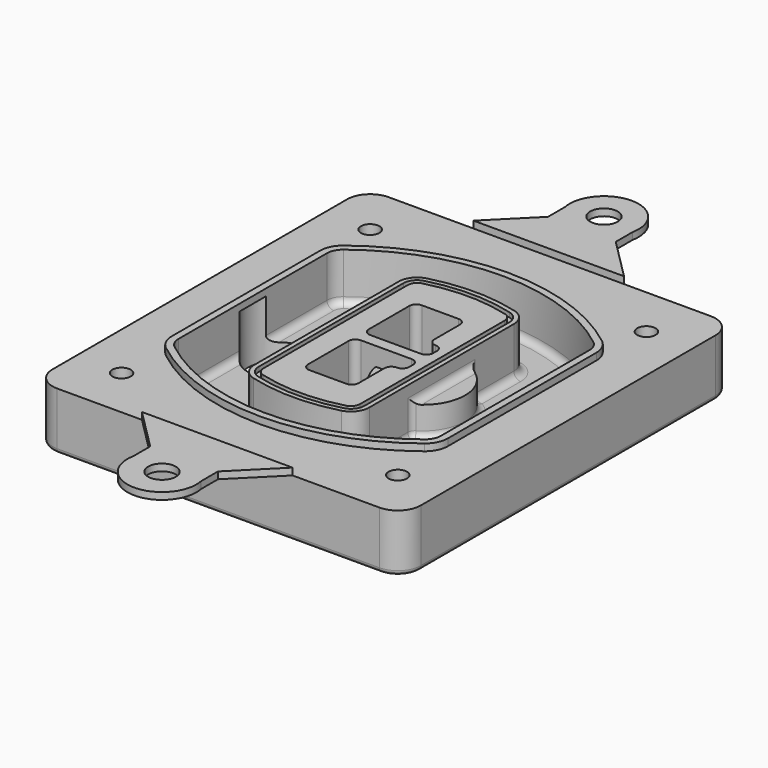
from build123d import *

# Parameters (mm, degrees)
F0_R      = 4
F1_DEPTH  = 25
F2_DEPTH  = 3
F3_DEPTH  = 18
F5_DEPTH  = 21
F6_DEPTH  = 2
F8_DEPTH  = 20
F9_DEPTH  = 16
F10_DEPTH = 25
F7_R      = 6
F7_R_2    = 4
F11_DEPTH = 6
F13_DEPTH = 9
F14_R     = 3
F15_R     = 2
F16_R     = 6
F17_DEPTH = 3


with BuildPart() as f1:
    # F0 (on Top) → F1 (new body)
    with BuildSketch(Plane.XY):
        with BuildLine():
            ThreePointArc((-80, -80), (-77.0710678119, -87.0710678119), (-70, -90))
            Line((-70, -90), (70, -90))
            ThreePointArc((70, -90), (77.0710678119, -87.0710678119), (80, -80))
            Line((80, -80), (80, 80))
            ThreePointArc((80, 80), (77.0710678119, 87.0710678119), (70, 90))
            Line((70, 90), (-70, 90))
            ThreePointArc((-70, 90), (-77.0710678119, 87.0710678119), (-80, 80))
            Line((-80, 80), (-80, -80))
        make_face()
        with Locations((-60, -67.5)):
            Circle(F0_R, mode=Mode.SUBTRACT)
        with Locations((60, -67.5)):
            Circle(F0_R, mode=Mode.SUBTRACT)
        with Locations((-60, 67.5)):
            Circle(F0_R, mode=Mode.SUBTRACT)
        with BuildLine():
            ThreePointArc((-64, 40.2934422872), (-62.5820384798, 46.4328484224), (-58.6153846154, 51.3286200352))
            ThreePointArc((-58.6153846154, 51.3286200352), (0, 71.5), (58.6153846154, 51.3286200352))
            ThreePointArc((58.6153846154, 51.3286200352), (62.5820384798, 46.4328484224), (64, 40.2934422872))
            Line((64, 40.2934422872), (64, -40.2934422872))
            ThreePointArc((64, -40.2934422872), (62.5820384798, -46.4328484224), (58.6153846154, -51.3286200352))
            ThreePointArc((58.6153846154, -51.3286200352), (0, -71.5), (-58.6153846154, -51.3286200352))
            ThreePointArc((-58.6153846154, -51.3286200352), (-62.5820384798, -46.4328484224), (-64, -40.2934422872))
            Line((-64, -40.2934422872), (-64, 40.2934422872))
        make_face(mode=Mode.SUBTRACT)
        with Locations((60, 67.5)):
            Circle(F0_R, mode=Mode.SUBTRACT)
        with BuildLine():
            ThreePointArc((58.6153846154, 51.3286200352), (0, 71.5), (-58.6153846154, 51.3286200352))
            ThreePointArc((-58.6153846154, 51.3286200352), (-62.5820384798, 46.4328484224), (-64, 40.2934422872))
            Line((-64, 40.2934422872), (-64, -40.2934422872))
            ThreePointArc((-64, -40.2934422872), (-62.5820384798, -46.4328484224), (-58.6153846154, -51.3286200352))
            ThreePointArc((-58.6153846154, -51.3286200352), (0, -71.5), (58.6153846154, -51.3286200352))
            ThreePointArc((58.6153846154, -51.3286200352), (62.5820384798, -46.4328484224), (64, -40.2934422872))
            Line((64, -40.2934422872), (64, 40.2934422872))
            ThreePointArc((64, 40.2934422872), (62.5820384798, 46.4328484224), (58.6153846154, 51.3286200352))
        make_face()
        with BuildLine():
            Line((-60, -40.2934422872), (-60, 40.2934422872))
            ThreePointArc((-60, 40.2934422872), (-58.9871703427, 44.6787323838), (-56.1538461538, 48.1757121072))
            ThreePointArc((-56.1538461538, 48.1757121072), (0, 67.5), (56.1538461538, 48.1757121072))
            ThreePointArc((56.1538461538, 48.1757121072), (58.9871703427, 44.6787323838), (60, 40.2934422872))
            Line((60, 40.2934422872), (60, -40.2934422872))
            ThreePointArc((60, -40.2934422872), (58.9871703427, -44.6787323838), (56.1538461538, -48.1757121072))
            ThreePointArc((56.1538461538, -48.1757121072), (0, -67.5), (-56.1538461538, -48.1757121072))
            ThreePointArc((-56.1538461538, -48.1757121072), (-58.9871703427, -44.6787323838), (-60, -40.2934422872))
        make_face(mode=Mode.SUBTRACT)
        with BuildLine():
            ThreePointArc((-56.1538461538, 48.1757121072), (-58.9871703427, 44.6787323838), (-60, 40.2934422872))
            Line((-60, 40.2934422872), (-60, -40.2934422872))
            ThreePointArc((-60, -40.2934422872), (-58.9871703427, -44.6787323838), (-56.1538461538, -48.1757121072))
            ThreePointArc((-56.1538461538, -48.1757121072), (0, -67.5), (56.1538461538, -48.1757121072))
            ThreePointArc((56.1538461538, -48.1757121072), (58.9871703427, -44.6787323838), (60, -40.2934422872))
            Line((60, -40.2934422872), (60, 40.2934422872))
            ThreePointArc((60, 40.2934422872), (58.9871703427, 44.6787323838), (56.1538461538, 48.1757121072))
            ThreePointArc((56.1538461538, 48.1757121072), (0, 67.5), (-56.1538461538, 48.1757121072))
        make_face()
        with BuildLine():
            ThreePointArc((54.3076923077, 45.8110311612), (56.2910192399, 43.3631453548), (57, 40.2934422872))
            Line((57, 40.2934422872), (57, -40.2934422872))
            ThreePointArc((57, -40.2934422872), (56.2910192399, -43.3631453548), (54.3076923077, -45.8110311612))
            ThreePointArc((54.3076923077, -45.8110311612), (0, -64.5), (-54.3076923077, -45.8110311612))
            ThreePointArc((-54.3076923077, -45.8110311612), (-56.2910192399, -43.3631453548), (-57, -40.2934422872))
            Line((-57, -40.2934422872), (-57, 40.2934422872))
            ThreePointArc((-57, 40.2934422872), (-56.2910192399, 43.3631453548), (-54.3076923077, 45.8110311612))
            ThreePointArc((-54.3076923077, 45.8110311612), (0, 64.5), (54.3076923077, 45.8110311612))
        make_face(mode=Mode.SUBTRACT)
        with BuildLine():
            Line((57, -40.2934422872), (57, 40.2934422872))
            ThreePointArc((57, 40.2934422872), (56.2910192399, 43.3631453548), (54.3076923077, 45.8110311612))
            ThreePointArc((54.3076923077, 45.8110311612), (0, 64.5), (-54.3076923077, 45.8110311612))
            ThreePointArc((-54.3076923077, 45.8110311612), (-56.2910192399, 43.3631453548), (-57, 40.2934422872))
            Line((-57, 40.2934422872), (-57, -40.2934422872))
            ThreePointArc((-57, -40.2934422872), (-56.2910192399, -43.3631453548), (-54.3076923077, -45.8110311612))
            ThreePointArc((-54.3076923077, -45.8110311612), (0, -64.5), (54.3076923077, -45.8110311612))
            ThreePointArc((54.3076923077, -45.8110311612), (56.2910192399, -43.3631453548), (57, -40.2934422872))
        make_face()
    extrude(amount=-F1_DEPTH)

    # F0 (on Top) → F2 (join)
    with BuildSketch(Plane.XY):
        with BuildLine():
            ThreePointArc((-56.1538461538, 48.1757121072), (-58.9871703427, 44.6787323838), (-60, 40.2934422872))
            Line((-60, 40.2934422872), (-60, -40.2934422872))
            ThreePointArc((-60, -40.2934422872), (-58.9871703427, -44.6787323838), (-56.1538461538, -48.1757121072))
            ThreePointArc((-56.1538461538, -48.1757121072), (0, -67.5), (56.1538461538, -48.1757121072))
            ThreePointArc((56.1538461538, -48.1757121072), (58.9871703427, -44.6787323838), (60, -40.2934422872))
            Line((60, -40.2934422872), (60, 40.2934422872))
            ThreePointArc((60, 40.2934422872), (58.9871703427, 44.6787323838), (56.1538461538, 48.1757121072))
            ThreePointArc((56.1538461538, 48.1757121072), (0, 67.5), (-56.1538461538, 48.1757121072))
        make_face()
        with BuildLine():
            ThreePointArc((54.3076923077, 45.8110311612), (56.2910192399, 43.3631453548), (57, 40.2934422872))
            Line((57, 40.2934422872), (57, -40.2934422872))
            ThreePointArc((57, -40.2934422872), (56.2910192399, -43.3631453548), (54.3076923077, -45.8110311612))
            ThreePointArc((54.3076923077, -45.8110311612), (0, -64.5), (-54.3076923077, -45.8110311612))
            ThreePointArc((-54.3076923077, -45.8110311612), (-56.2910192399, -43.3631453548), (-57, -40.2934422872))
            Line((-57, -40.2934422872), (-57, 40.2934422872))
            ThreePointArc((-57, 40.2934422872), (-56.2910192399, 43.3631453548), (-54.3076923077, 45.8110311612))
            ThreePointArc((-54.3076923077, 45.8110311612), (0, 64.5), (54.3076923077, 45.8110311612))
        make_face(mode=Mode.SUBTRACT)
    extrude(amount=F2_DEPTH)

    # F0 (on Top) → F3 (cut)
    with BuildSketch(Plane.XY):
        with BuildLine():
            Line((57, -40.2934422872), (57, 40.2934422872))
            ThreePointArc((57, 40.2934422872), (56.2910192399, 43.3631453548), (54.3076923077, 45.8110311612))
            ThreePointArc((54.3076923077, 45.8110311612), (0, 64.5), (-54.3076923077, 45.8110311612))
            ThreePointArc((-54.3076923077, 45.8110311612), (-56.2910192399, 43.3631453548), (-57, 40.2934422872))
            Line((-57, 40.2934422872), (-57, -40.2934422872))
            ThreePointArc((-57, -40.2934422872), (-56.2910192399, -43.3631453548), (-54.3076923077, -45.8110311612))
            ThreePointArc((-54.3076923077, -45.8110311612), (0, -64.5), (54.3076923077, -45.8110311612))
            ThreePointArc((54.3076923077, -45.8110311612), (56.2910192399, -43.3631453548), (57, -40.2934422872))
        make_face()
    extrude(amount=-F3_DEPTH, mode=Mode.SUBTRACT)

    # F4 (on face) → F5 (join, through all)
    with BuildSketch(Plane.XY.offset(3)):
        with BuildLine():
            ThreePointArc((-25, -39.2465276821), (-23.3511545998, -44.1109737193), (-19.0842911877, -46.9702398883))
            ThreePointArc((-19.0842911877, -46.9702398883), (0, -49.5), (19.0842911877, -46.9702398883))
            ThreePointArc((19.0842911877, -46.9702398883), (23.3511545998, -44.1109737193), (25, -39.2465276821))
            Line((25, -39.2465276821), (25, 39.2465276821))
            ThreePointArc((25, 39.2465276821), (23.3511545998, 44.1109737193), (19.0842911877, 46.9702398883))
            ThreePointArc((19.0842911877, 46.9702398883), (0, 49.5), (-19.0842911877, 46.9702398883))
            ThreePointArc((-19.0842911877, 46.9702398883), (-23.3511545998, 44.1109737193), (-25, 39.2465276821))
            Line((-25, 39.2465276821), (-25, -39.2465276821))
        make_face()
        with BuildLine():
            ThreePointArc((18.5632183908, 45.0393118368), (21.7633659499, 42.89486221), (23, 39.2465276821))
            Line((23, 39.2465276821), (23, -39.2465276821))
            ThreePointArc((23, -39.2465276821), (21.7633659499, -42.89486221), (18.5632183908, -45.0393118368))
            ThreePointArc((18.5632183908, -45.0393118368), (0, -47.5), (-18.5632183908, -45.0393118368))
            ThreePointArc((-18.5632183908, -45.0393118368), (-21.7633659499, -42.89486221), (-23, -39.2465276821))
            Line((-23, -39.2465276821), (-23, 39.2465276821))
            ThreePointArc((-23, 39.2465276821), (-21.7633659499, 42.89486221), (-18.5632183908, 45.0393118368))
            ThreePointArc((-18.5632183908, 45.0393118368), (0, 47.5), (18.5632183908, 45.0393118368))
        make_face(mode=Mode.SUBTRACT)
        with BuildLine():
            Line((23, -39.2465276821), (23, 39.2465276821))
            ThreePointArc((23, 39.2465276821), (21.7633659499, 42.89486221), (18.5632183908, 45.0393118368))
            ThreePointArc((18.5632183908, 45.0393118368), (0, 47.5), (-18.5632183908, 45.0393118368))
            ThreePointArc((-18.5632183908, 45.0393118368), (-21.7633659499, 42.89486221), (-23, 39.2465276821))
            Line((-23, 39.2465276821), (-23, -39.2465276821))
            ThreePointArc((-23, -39.2465276821), (-21.7633659499, -42.89486221), (-18.5632183908, -45.0393118368))
            ThreePointArc((-18.5632183908, -45.0393118368), (0, -47.5), (18.5632183908, -45.0393118368))
            ThreePointArc((18.5632183908, -45.0393118368), (21.7633659499, -42.89486221), (23, -39.2465276821))
        make_face()
        with BuildLine():
            ThreePointArc((18.0421455939, 43.1083837852), (20.1755772999, 41.6787507007), (21, 39.2465276821))
            Line((21, 39.2465276821), (21, -39.2465276821))
            ThreePointArc((21, -39.2465276821), (20.1755772999, -41.6787507007), (18.0421455939, -43.1083837852))
            ThreePointArc((18.0421455939, -43.1083837852), (0, -45.5), (-18.0421455939, -43.1083837852))
            ThreePointArc((-18.0421455939, -43.1083837852), (-20.1755772999, -41.6787507007), (-21, -39.2465276821))
            Line((-21, -39.2465276821), (-21, 39.2465276821))
            ThreePointArc((-21, 39.2465276821), (-20.1755772999, 41.6787507007), (-18.0421455939, 43.1083837852))
            ThreePointArc((-18.0421455939, 43.1083837852), (0, 45.5), (18.0421455939, 43.1083837852))
        make_face(mode=Mode.SUBTRACT)
        with BuildLine():
            Line((21, -39.2465276821), (21, 39.2465276821))
            ThreePointArc((21, 39.2465276821), (20.1755772999, 41.6787507007), (18.0421455939, 43.1083837852))
            ThreePointArc((18.0421455939, 43.1083837852), (0, 45.5), (-18.0421455939, 43.1083837852))
            ThreePointArc((-18.0421455939, 43.1083837852), (-20.1755772999, 41.6787507007), (-21, 39.2465276821))
            Line((-21, 39.2465276821), (-21, -39.2465276821))
            ThreePointArc((-21, -39.2465276821), (-20.1755772999, -41.6787507007), (-18.0421455939, -43.1083837852))
            ThreePointArc((-18.0421455939, -43.1083837852), (0, -45.5), (18.0421455939, -43.1083837852))
            ThreePointArc((18.0421455939, -43.1083837852), (20.1755772999, -41.6787507007), (21, -39.2465276821))
        make_face()
        with BuildLine():
            Line((-8, -2.5), (14, -2.5))
            ThreePointArc((14, -2.5), (16.1213203436, -3.3786796564), (17, -5.5))
            Line((17, -5.5), (17, -7.5))
            ThreePointArc((17, -7.5), (16.1213203436, -9.6213203436), (14, -10.5))
            ThreePointArc((14, -10.5), (11.8786796564, -11.3786796564), (11, -13.5))
            Line((11, -13.5), (11, -27.5))
            ThreePointArc((11, -27.5), (10.1213203436, -29.6213203436), (8, -30.5))
            Line((8, -30.5), (-8, -30.5))
            ThreePointArc((-8, -30.5), (-10.1213203436, -29.6213203436), (-11, -27.5))
            Line((-11, -27.5), (-11, -5.5))
            ThreePointArc((-11, -5.5), (-10.1213203436, -3.3786796564), (-8, -2.5))
        make_face(mode=Mode.SUBTRACT)
        with BuildLine():
            ThreePointArc((-8, 2.5), (-10.1213203436, 3.3786796564), (-11, 5.5))
            Line((-11, 5.5), (-11, 27.5))
            ThreePointArc((-11, 27.5), (-10.1213203436, 29.6213203436), (-8, 30.5))
            Line((-8, 30.5), (8, 30.5))
            ThreePointArc((8, 30.5), (10.1213203436, 29.6213203436), (11, 27.5))
            Line((11, 27.5), (11, 13.5))
            ThreePointArc((11, 13.5), (11.8786796564, 11.3786796564), (14, 10.5))
            ThreePointArc((14, 10.5), (16.1213203436, 9.6213203436), (17, 7.5))
            Line((17, 7.5), (17, 5.5))
            ThreePointArc((17, 5.5), (16.1213203436, 3.3786796564), (14, 2.5))
            Line((14, 2.5), (-8, 2.5))
        make_face(mode=Mode.SUBTRACT)
    extrude(amount=-F5_DEPTH)

    # F4 (on face) → F6 (cut)
    with BuildSketch(Plane.XY.offset(3)):
        with BuildLine():
            Line((23, -39.2465276821), (23, 39.2465276821))
            ThreePointArc((23, 39.2465276821), (21.7633659499, 42.89486221), (18.5632183908, 45.0393118368))
            ThreePointArc((18.5632183908, 45.0393118368), (0, 47.5), (-18.5632183908, 45.0393118368))
            ThreePointArc((-18.5632183908, 45.0393118368), (-21.7633659499, 42.89486221), (-23, 39.2465276821))
            Line((-23, 39.2465276821), (-23, -39.2465276821))
            ThreePointArc((-23, -39.2465276821), (-21.7633659499, -42.89486221), (-18.5632183908, -45.0393118368))
            ThreePointArc((-18.5632183908, -45.0393118368), (0, -47.5), (18.5632183908, -45.0393118368))
            ThreePointArc((18.5632183908, -45.0393118368), (21.7633659499, -42.89486221), (23, -39.2465276821))
        make_face()
        with BuildLine():
            ThreePointArc((18.0421455939, 43.1083837852), (20.1755772999, 41.6787507007), (21, 39.2465276821))
            Line((21, 39.2465276821), (21, -39.2465276821))
            ThreePointArc((21, -39.2465276821), (20.1755772999, -41.6787507007), (18.0421455939, -43.1083837852))
            ThreePointArc((18.0421455939, -43.1083837852), (0, -45.5), (-18.0421455939, -43.1083837852))
            ThreePointArc((-18.0421455939, -43.1083837852), (-20.1755772999, -41.6787507007), (-21, -39.2465276821))
            Line((-21, -39.2465276821), (-21, 39.2465276821))
            ThreePointArc((-21, 39.2465276821), (-20.1755772999, 41.6787507007), (-18.0421455939, 43.1083837852))
            ThreePointArc((-18.0421455939, 43.1083837852), (0, 45.5), (18.0421455939, 43.1083837852))
        make_face(mode=Mode.SUBTRACT)
    extrude(amount=-F6_DEPTH, mode=Mode.SUBTRACT)

    # F7 (on face) → F8 (join)
    with BuildSketch(Plane(origin=(0, 0, -25), x_dir=(1, 0, 0), z_dir=(0, 0, -1))):
        with BuildLine():
            ThreePointArc((3.28842436, 0), (16.7567035675, 13.4682792075), (30.224982775, 0))
            Line((30.224982775, 0), (35.224982775, 0))
            ThreePointArc((35.224982775, 0), (16.7567035675, 18.4682792075), (-1.71157564, 0))
            Line((-1.71157564, 0), (3.28842436, 0))
        make_face()
        with BuildLine():
            Line((3.28842436, 0), (30.224982775, 0))
            ThreePointArc((30.224982775, 0), (16.7567035675, 13.4682792075), (3.28842436, 0))
        make_face()
        with BuildLine():
            ThreePointArc((3.28842436, 0), (16.7567035675, -13.4682792075), (30.224982775, 0))
            Line((30.224982775, 0), (3.28842436, 0))
        make_face()
        with BuildLine():
            Line((35.224982775, 0), (30.224982775, 0))
            ThreePointArc((30.224982775, 0), (16.7567035675, -13.4682792075), (3.28842436, 0))
            Line((3.28842436, 0), (-1.71157564, 0))
            ThreePointArc((-1.71157564, 0), (16.7567035675, -18.4682792075), (35.224982775, 0))
        make_face()
    extrude(amount=-F8_DEPTH)

    # F7 (on face) → F9 (cut)
    with BuildSketch(Plane(origin=(0, 0, -25), x_dir=(1, 0, 0), z_dir=(0, 0, -1))):
        with BuildLine():
            Line((3.28842436, 0), (30.224982775, 0))
            ThreePointArc((30.224982775, 0), (16.7567035675, 13.4682792075), (3.28842436, 0))
        make_face()
        with BuildLine():
            ThreePointArc((3.28842436, 0), (16.7567035675, -13.4682792075), (30.224982775, 0))
            Line((30.224982775, 0), (3.28842436, 0))
        make_face()
    extrude(amount=-F9_DEPTH, mode=Mode.SUBTRACT)

    # F7 (on face) → F10 (cut)
    with BuildSketch(Plane(origin=(0, 0, -25), x_dir=(1, 0, 0), z_dir=(0, 0, -1))):
        with BuildLine():
            Line((-59.0318229325, 0), (-32.0952645175, 0))
            ThreePointArc((-32.0952645175, 0), (-45.563543725, 13.4682792075), (-59.0318229325, 0))
        make_face()
        with BuildLine():
            ThreePointArc((-59.0318229325, 0), (-45.563543725, -13.4682792075), (-32.0952645175, 0))
            Line((-32.0952645175, 0), (-59.0318229325, 0))
        make_face()
    extrude(amount=-F10_DEPTH, mode=Mode.SUBTRACT)

    # F7 (on face) → F11 (cut)
    with BuildSketch(Plane(origin=(0, 0, -25), x_dir=(1, 0, 0), z_dir=(0, 0, -1))):
        with Locations((60, -67.5)):
            Circle(F7_R)
        with Locations((60, -67.5)):
            Circle(F7_R_2, mode=Mode.SUBTRACT)
        with Locations((60, -67.5)):
            Circle(F7_R)
        with Locations((60, -67.5)):
            Circle(F7_R_2, mode=Mode.SUBTRACT)
        with Locations((-60, -67.5)):
            Circle(F7_R)
        with Locations((-60, -67.5)):
            Circle(F7_R_2, mode=Mode.SUBTRACT)
        with Locations((-60, -67.5)):
            Circle(F7_R)
        with Locations((-60, -67.5)):
            Circle(F7_R_2, mode=Mode.SUBTRACT)
        with Locations((-60, 67.5)):
            Circle(F7_R)
        with Locations((-60, 67.5)):
            Circle(F7_R_2, mode=Mode.SUBTRACT)
        with Locations((-60, 67.5)):
            Circle(F7_R)
        with Locations((-60, 67.5)):
            Circle(F7_R_2, mode=Mode.SUBTRACT)
        with Locations((60, 67.5)):
            Circle(F7_R)
        with Locations((60, 67.5)):
            Circle(F7_R_2, mode=Mode.SUBTRACT)
        with Locations((60, 67.5)):
            Circle(F7_R)
        with Locations((60, 67.5)):
            Circle(F7_R_2, mode=Mode.SUBTRACT)
    extrude(amount=-F11_DEPTH, mode=Mode.SUBTRACT)

    # F12 (on face) → F13 (cut, through all)
    with BuildSketch(Plane(origin=(0, 0, -9), x_dir=(1, 0, 0), z_dir=(0, 0, -1))):
        with BuildLine():
            Line((11, 13.5), (11, 17.5481537753))
            ThreePointArc((11, 17.5481537753), (2.5696536419, 11.8239143813), (-1.5415842455, 2.5))
            Line((-1.5415842455, 2.5), (3.5224848595, 2.5))
            ThreePointArc((3.5224848595, 2.5), (6.1857188154, 8.3455872281), (11.2536447004, 12.2927168648))
            ThreePointArc((11.2536447004, 12.2927168648), (11.0640958889, 12.8831798879), (11, 13.5))
        make_face()
        with BuildLine():
            ThreePointArc((11.2536447004, -12.2927168648), (6.1857188154, -8.3455872281), (3.5224848595, -2.5))
            Line((3.5224848595, -2.5), (-1.5415842455, -2.5))
            ThreePointArc((-1.5415842455, -2.5), (2.5696536419, -11.8239143813), (11, -17.5481537753))
            Line((11, -17.5481537753), (11, -13.5))
            ThreePointArc((11, -13.5), (11.0640958889, -12.8831798879), (11.2536447004, -12.2927168648))
        make_face()
        with BuildLine():
            ThreePointArc((11.2536447004, 12.2927168648), (6.1857188154, 8.3455872281), (3.5224848595, 2.5))
            Line((3.5224848595, 2.5), (14, 2.5))
            ThreePointArc((14, 2.5), (16.1213203436, 3.3786796564), (17, 5.5))
            Line((17, 5.5), (17, 7.5))
            ThreePointArc((17, 7.5), (16.1213203436, 9.6213203436), (14, 10.5))
            ThreePointArc((14, 10.5), (12.3601599782, 10.9878446101), (11.2536447004, 12.2927168648))
        make_face()
        with BuildLine():
            Line((14, -2.5), (3.5224848595, -2.5))
            ThreePointArc((3.5224848595, -2.5), (6.1857188154, -8.3455872281), (11.2536447004, -12.2927168648))
            ThreePointArc((11.2536447004, -12.2927168648), (12.3601599782, -10.9878446101), (14, -10.5))
            ThreePointArc((14, -10.5), (16.1213203436, -9.6213203436), (17, -7.5))
            Line((17, -7.5), (17, -5.5))
            ThreePointArc((17, -5.5), (16.1213203436, -3.3786796564), (14, -2.5))
        make_face()
    extrude(amount=F13_DEPTH, mode=Mode.SUBTRACT)

    # F14
    f14_edges = [f1.edges().sort_by_distance(p)[0] for p in [
        (-57, -23.703476, -18),
        (-57, 23.703476, -18),
        (25, 0, -5),
        (25, 16.526506, -11.5),
        (25, -16.526506, -11.5),
        (25, -27.886517, -18),
        (35.224983, 0, -18),
    ]]
    fillet(f14_edges, radius=F14_R)

    # F15
    f15_edges = [f1.edges().sort_by_distance(p)[0] for p in [
        (0, -90, -25),
    ]]
    fillet(f15_edges, radius=F15_R)


with BuildPart() as f17:
    # F16 (on face) → F17 (new body, through all)
    with BuildSketch(Plane.XY):
        with BuildLine():
            Line((14.2687438657, 108), (14.2687438657, 117.0733694305))
            ThreePointArc((14.2687438657, 117.0733694305), (-0.4429804897, 135), (-15.1547048451, 117.0733694305))
            Line((-15.1547048451, 117.0733694305), (-15.1547048451, 108))
            Line((-15.1547048451, 108), (-33.1547048451, 90))
            Line((-33.1547048451, 90), (32.2687438657, 90))
            Line((32.2687438657, 90), (14.2687438657, 108))
        make_face()
        with Locations((-0.4429804897, 120)):
            Circle(F16_R, mode=Mode.SUBTRACT)
    extrude(amount=F17_DEPTH)


with BuildPart() as f17b:
    # F16 (on face) → F17, piece 2 (new body, through all)
    with BuildSketch(Plane.XY):
        with BuildLine():
            Line((14.2687438657, -108), (32.2687438657, -90))
            Line((32.2687438657, -90), (-33.1547048451, -90))
            Line((-33.1547048451, -90), (-15.1547048451, -108))
            Line((-15.1547048451, -108), (-15.1547048451, -117.0733694305))
            ThreePointArc((-15.1547048451, -117.0733694305), (-0.4429804897, -135), (14.2687438657, -117.0733694305))
            Line((14.2687438657, -117.0733694305), (14.2687438657, -108))
        make_face()
        with Locations((-0.4429804897, -120)):
            Circle(F16_R, mode=Mode.SUBTRACT)
    extrude(amount=F17_DEPTH)


solid = Compound([f1.part, f17.part, f17b.part])
